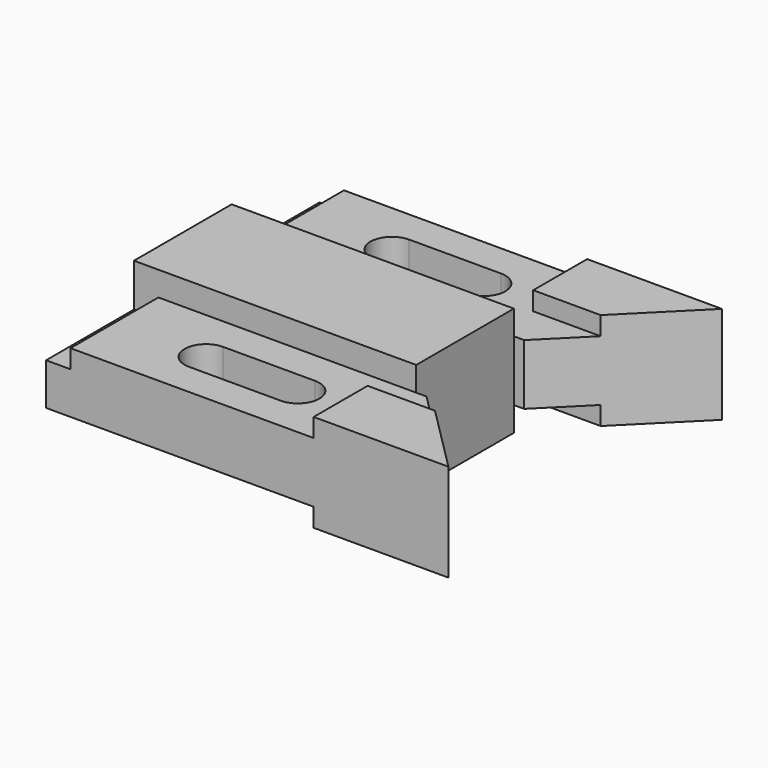
from build123d import *

# Parameters (mm, degrees)
F1_DEPTH = 14.224
F2_DEPTH = 7.874
F3_DEPTH = 12.7
F0_W     = 6.35
F0_H     = 28.575
F4_DEPTH = 7.874
F5_DEPTH = 3.048


with BuildPart() as f1:
    # F0 (on Top) → F1 (new body, symmetric)
    with BuildSketch(Plane.XY):
        Polygon((-30.353, 15.875), (-36.703, 15.875), (-36.703, -15.875), (-30.353, -15.875), (36.703, -15.875), (36.703, 15.875), align=None)
    extrude(amount=F1_DEPTH, both=True)

    # F0 (on Top) → F2 (join, symmetric)
    with BuildSketch(Plane.XY):
        Polygon((-30.353, 44.45), (-30.353, 15.875), (36.703, 15.875), (39.37, 15.875), (50.419, 26.924), (32.893, 26.924), (32.893, 44.45), align=None)
        with BuildLine():
            ThreePointArc((-6.477, 24.638), (-12.065, 30.226), (-6.477, 35.814))
            Line((-6.477, 35.814), (17.399, 35.814))
            ThreePointArc((17.399, 35.814), (22.987, 30.226), (17.399, 24.638))
            Line((17.399, 24.638), (-6.477, 24.638))
        make_face(mode=Mode.SUBTRACT)
        Polygon((36.703, -15.875), (-30.353, -15.875), (-30.353, -44.45), (32.893, -44.45), (32.893, -26.924), (50.419, -26.924), (39.37, -15.875), align=None)
        with BuildLine():
            Line((-6.477, -24.638), (17.399, -24.638))
            ThreePointArc((17.399, -24.638), (22.987, -30.226), (17.399, -35.814))
            Line((17.399, -35.814), (-6.477, -35.814))
            ThreePointArc((-6.477, -35.814), (-12.065, -30.226), (-6.477, -24.638))
        make_face(mode=Mode.SUBTRACT)
    extrude(amount=F2_DEPTH, both=True)

    # F0 (on Top) → F3 (join, symmetric)
    with BuildSketch(Plane.XY):
        Polygon((67.945, 44.45), (32.893, 44.45), (32.893, 26.924), (50.419, 26.924), align=None)
        Polygon((32.893, -26.924), (32.893, -44.45), (67.945, -44.45), (50.419, -26.924), align=None)
    extrude(amount=F3_DEPTH, both=True)

    # F0 (on Top) → F4 (join)
    with BuildSketch(Plane.XY):
        with Locations((-33.528, 30.1625)):
            Rectangle(F0_W, F0_H)
        with Locations((-33.528, -30.1625)):
            Rectangle(F0_W, F0_H)
    extrude(amount=-F4_DEPTH)

    # F0 (on Top) → F5 (join)
    with BuildSketch(Plane.XY):
        with Locations((-33.528, 30.1625)):
            Rectangle(F0_W, F0_H)
        with Locations((-33.528, -30.1625)):
            Rectangle(F0_W, F0_H)
    extrude(amount=F5_DEPTH)


solid = f1.part
